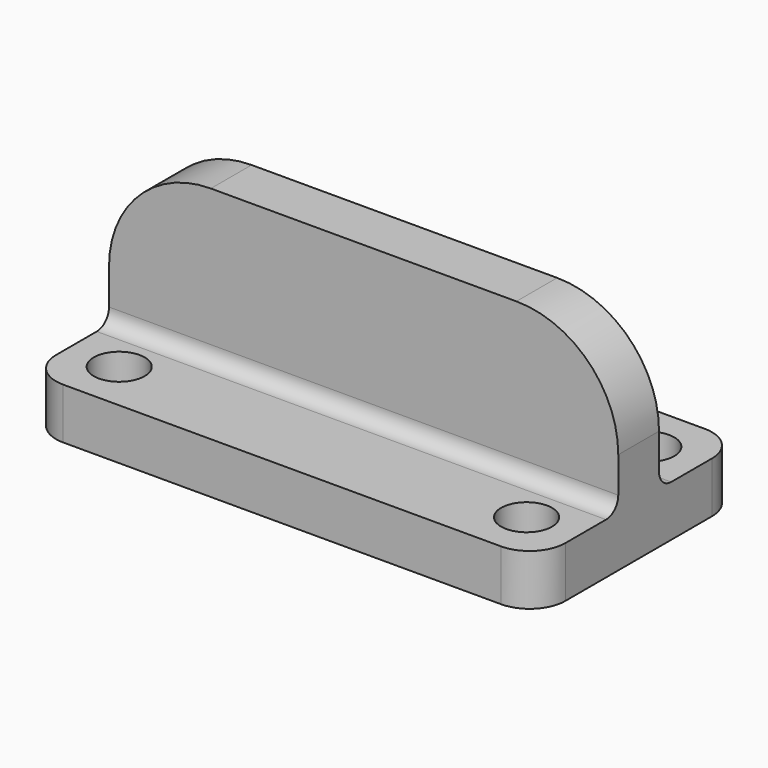
from build123d import *

# Parameters (mm, degrees)
SKETCH_W     = 100
SKETCH_H     = 50
PAD_DEPTH    = 10
SKETCH001_W  = 100
SKETCH001_H  = 10
PAD001_DEPTH = 30
SKETCH002_R  = 5
POCKET_DEPTH = 10.001
FILLET_R     = 20
FILLET001_R  = 7
FILLET002_R  = 3


with BuildPart() as part:
    # Sketch → Pad (new body)
    with BuildSketch(Plane.XY):
        with Locations((50, 25)):
            Rectangle(SKETCH_W, SKETCH_H)
    extrude(amount=PAD_DEPTH)

    # Sketch001 (on Face6 of Pad) → Pad001 (join)
    with BuildSketch(Plane.XY.offset(10)):
        with Locations((50, 25)):
            Rectangle(SKETCH001_W, SKETCH001_H)
    extrude(amount=PAD001_DEPTH)

    # Sketch002 (on Face5 of Pad001) → Pocket (cut, through all)
    with BuildSketch(Plane.XY.offset(10)):
        with Locations((10, 40)):
            Circle(SKETCH002_R)
        with Locations((90, 40)):
            Circle(SKETCH002_R)
        with Locations((10, 10)):
            Circle(SKETCH002_R)
        with Locations((90, 10)):
            Circle(SKETCH002_R)
    extrude(amount=-POCKET_DEPTH, mode=Mode.SUBTRACT)

    # Fillet
    fillet_edges = [part.edges().sort_by_distance(p)[0] for p in [
        (100, 25, 40),
        (0, 25, 40),
    ]]
    fillet(fillet_edges, radius=FILLET_R)

    # Fillet001
    fillet001_edges = [part.edges().sort_by_distance(p)[0] for p in [
        (100, 0, 5),
        (100, 50, 5),
        (0, 0, 5),
        (0, 50, 5),
    ]]
    fillet(fillet001_edges, radius=FILLET001_R)

    # Fillet002
    fillet002_edges = [part.edges().sort_by_distance(p)[0] for p in [
        (50, 20, 10),
        (50, 30, 10),
    ]]
    fillet(fillet002_edges, radius=FILLET002_R)


solid = part.part
